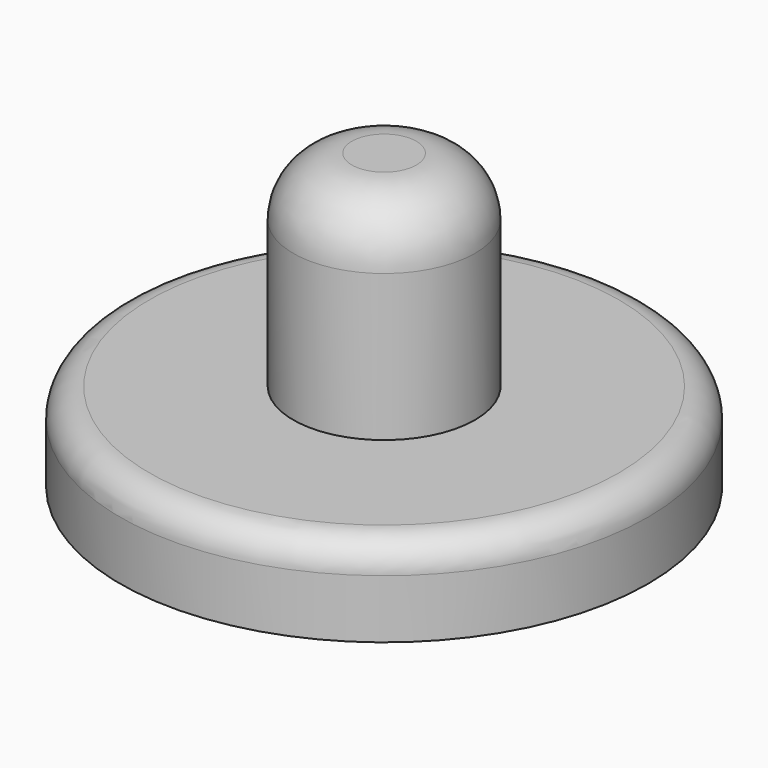
from build123d import *

# Parameters (mm, degrees)
F0_R     = 9
F1_DEPTH = 1.5
F2_R     = 9
F3_DEPTH = 1.5
F4_R     = 1
F5_R     = 3.1
F6_DEPTH = 7
F7_R     = 2
F9_DEPTH = 1.5


with BuildPart() as f1:
    # F0 (on Top) → F1 (new body)
    with BuildSketch(Plane.XY):
        Circle(F0_R)
        with BuildLine():
            add(Edge.make_bspline(
                [(0, 2.5), (-3.1781503931, 2.4996818975), (-6.0350862332, 1.3276056852), (-6, 0)],
                knots=[0, 0, 0, 0, 6.5, 6.5, 6.5, 6.5], degree=3))
            add(Edge.make_bspline(
                [(0, 2.5), (3.1781503931, 2.4996818975), (6.0350862332, 1.3276056852), (6, 0)],
                knots=[0, 0, 0, 0, 6.5, 6.5, 6.5, 6.5], degree=3))
            add(Edge.make_bspline(
                [(0, -2.5), (3.1781503931, -2.4996818975), (6.0350862332, -1.3276056852), (6, 0)],
                knots=[0, 0, 0, 0, 6.5, 6.5, 6.5, 6.5], degree=3))
            add(Edge.make_bspline(
                [(0, -2.5), (-3.1781503931, -2.4996818975), (-6.0350862332, -1.3276056852), (-6, 0)],
                knots=[0, 0, 0, 0, 6.5, 6.5, 6.5, 6.5], degree=3))
        make_face(mode=Mode.SUBTRACT)
    extrude(amount=F1_DEPTH)

    # F2 (on face) → F3 (join)
    with BuildSketch(Plane.XY.offset(1.5)):
        Circle(F2_R)
    extrude(amount=F3_DEPTH)

    # F4
    f4_edges = [f1.edges().sort_by_distance(p)[0] for p in [
        (-9, 0, 3),
    ]]
    fillet(f4_edges, radius=F4_R)

    # F5 (on face) → F6 (join)
    with BuildSketch(Plane.XY.offset(3)):
        Circle(F5_R)
    extrude(amount=F6_DEPTH)

    # F7
    f7_edges = [f1.edges().sort_by_distance(p)[0] for p in [
        (-3.1, 0, 10),
    ]]
    fillet(f7_edges, radius=F7_R)

    # F8 (on face) → F9 (join, through all)
    with BuildSketch(Plane(origin=(0, 0, 1.5), x_dir=(1, 0, 0), z_dir=(0, 0, -1))):
        with BuildLine():
            Line((0.5, 1.4), (0.5, 0))
            Line((0.5, 0), (0.5, -1.4))
            add(Edge.make_bspline(
                [(0.5, -1.4), (1.399901815, -1.3927484774), (2.9978926484, -1.1190434343), (3.9423397845, -0.7063065555)],
                knots=[0, 0, 0, 0, 2.9529043584, 2.9529043584, 2.9529043584, 2.9529043584], degree=3))
            ThreePointArc((3.9423397845, -0.7063065555), (3.7000016629, -0.0001318249), (3.94520464, 0.705053268))
            add(Edge.make_bspline(
                [(0.5, 1.4), (1.400812364, 1.39274114), (3.0011271582, 1.1184892747), (3.94520464, 0.705053268)],
                knots=[0, 0, 0, 0, 2.9558922002, 2.9558922002, 2.9558922002, 2.9558922002], degree=3))
        make_face()
        with BuildLine():
            Line((-0.5, 0), (-0.5, 1.4))
            add(Edge.make_bspline(
                [(-0.5, 1.4), (-1.400812364, 1.39274114), (-3.0011271582, 1.1184892747), (-3.94520464, 0.705053268)],
                knots=[0, 0, 0, 0, 2.9558922002, 2.9558922002, 2.9558922002, 2.9558922002], degree=3))
            ThreePointArc((-3.94520464, 0.705053268), (-3.7000016629, -0.0001318249), (-3.9423397845, -0.7063065555))
            add(Edge.make_bspline(
                [(-0.5, -1.4), (-1.399901815, -1.3927484774), (-2.9978926484, -1.1190434343), (-3.9423397845, -0.7063065555)],
                knots=[0, 0, 0, 0, 2.9529043584, 2.9529043584, 2.9529043584, 2.9529043584], degree=3))
            Line((-0.5, -1.4), (-0.5, 0))
        make_face()
    extrude(amount=F9_DEPTH)


solid = f1.part
